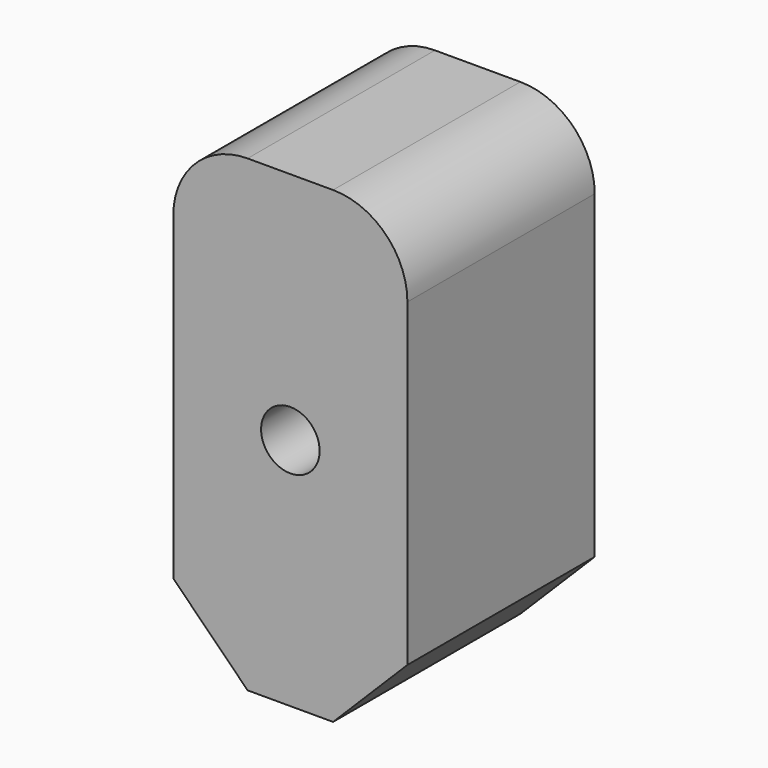
from build123d import *

# Parameters (mm, degrees)
F0_W     = 200
F0_H     = 400
F1_DEPTH = 200
F2_R     = 25
F3_DEPTH = 200.001
F4_R     = 63.5
F5_SIZE  = 63.5


with BuildPart() as f1:
    # F0 (on Front) → F1 (new body)
    with BuildSketch(Plane.XZ):
        Rectangle(F0_W, F0_H)
    extrude(amount=F1_DEPTH)

    # F2 (on face) → F3 (cut, through all)
    with BuildSketch(Plane.XZ.offset(200)):
        Circle(F2_R)
    extrude(amount=-F3_DEPTH, mode=Mode.SUBTRACT)

    # F4
    f4_edges = [f1.edges().sort_by_distance(p)[0] for p in [
        (100, -100, 200),
        (-100, -100, 200),
    ]]
    fillet(f4_edges, radius=F4_R)

    # F5
    f5_edges = [f1.edges().sort_by_distance(p)[0] for p in [
        (-100, -100, -200),
        (100, -100, -200),
    ]]
    chamfer(f5_edges, length=F5_SIZE)


solid = f1.part
